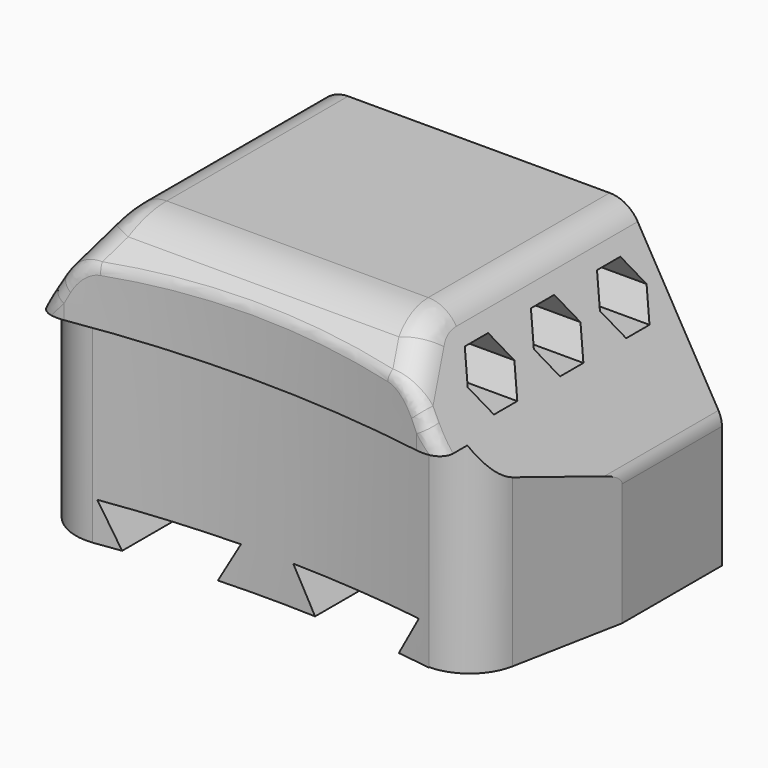
from build123d import *

# Parameters (mm, degrees)
PAD_DEPTH       = 45
POCKET_DEPTH    = 44.001
SKETCH002_R     = 6.75
SKETCH002_R_2   = 3
POCKET001_DEPTH = 10
PAD001_DEPTH    = 14
SKETCH004_R     = 2.55
HOLE_DEPTH      = 10
HOLE_TIPS_R     = 2.55
POCKET002_DEPTH = 70
PAD002_DEPTH    = 5
POCKET003_DEPTH = 75.001
FILLET_R        = 10
POCKET004_DEPTH = 31
POCKET005_DEPTH = 46.067612
FILLET001_R     = 5
FILLET002_R     = 4
FILLET003_R     = 2


with BuildPart() as part:
    # Sketch → Pad (new body)
    with BuildSketch(Plane.XY):
        with BuildLine():
            Line((0, 0), (75, 0))
            Line((75, 0), (75, -40))
            ThreePointArc((70.242855, -43.927688), (73.546706, -43.084524), (75, -40))
            ThreePointArc((70.242855, -43.927688), (37.5, -40.800537), (4.757145, -43.927688))
            ThreePointArc((0, -40), (1.453294, -43.084524), (4.757145, -43.927688))
            Line((0, -40), (0, 0))
        make_face()
    extrude(amount=PAD_DEPTH)

    # Sketch001 (on Face4 of Pad) → Pocket (cut, through all)
    with BuildSketch(Plane(origin=(0, 0, 0), x_dir=(-1, 0, 0), z_dir=(0, 1, 0))):
        Polygon((-58.845299, 0), (-62.309401, 6), (-41.535898, 6), (-45, 0), align=None)
        Polygon((-30, 0), (-33.464102, 6), (-12.690599, 6), (-16.154701, 0), align=None)
    extrude(amount=-POCKET_DEPTH, mode=Mode.SUBTRACT)

    # Sketch002 (on Face15 of Pocket) → Pocket001 (cut)
    with BuildSketch(Plane(origin=(0, 0, 0), x_dir=(-1, 0, 0), z_dir=(0, 1, 0))):
        with Locations((-51.92265, 19.990381)):
            Circle(SKETCH002_R)
        with Locations((-51.92265, 19.990381)):
            Circle(SKETCH002_R_2, mode=Mode.SUBTRACT)
        with Locations((-23.07735, 19.990381)):
            Circle(SKETCH002_R)
        with Locations((-23.07735, 19.990381)):
            Circle(SKETCH002_R_2, mode=Mode.SUBTRACT)
    extrude(amount=-POCKET001_DEPTH, mode=Mode.SUBTRACT)

    # Sketch003 (on Face12 of Pocket001) → Pad001 (join)
    with BuildSketch(Plane.XY.offset(45)):
        with BuildLine():
            ThreePointArc((64.69047, -45.989351), (67.738782, -45.691379), (70.242855, -43.927688))
            ThreePointArc((70.242855, -43.927688), (37.5, -40.800537), (4.757145, -43.927688))
            ThreePointArc((4.757145, -43.927688), (7.261218, -45.691379), (10.30953, -45.989351))
            ThreePointArc((10.30953, -45.989351), (37.5, -43.800537), (64.69047, -45.989351))
        make_face()
    extrude(amount=-PAD001_DEPTH)

    # Sketch004 (on Face15 of Pad001) → Hole (cut)
    with BuildSketch(Plane(origin=(0, 0, 0), x_dir=(-1, 0, 0), z_dir=(0, 1, 0))):
        with Locations((-37.5, 19.990381)):
            Circle(SKETCH004_R)
    extrude(amount=-HOLE_DEPTH, mode=Mode.SUBTRACT)

    # Hole tips → Hole tip 1 section 0
    with BuildSketch(Plane(origin=(0, -10, 0), x_dir=(-1, 0, 0), z_dir=(0, 1, 0)), mode=Mode.PRIVATE) as hole_tip_1_s0:
        with Locations((-37.5, 19.990381)):
            Circle(HOLE_TIPS_R)
    loft([hole_tip_1_s0.sketch, Vertex(37.5, -11.532195, 19.990381)], mode=Mode.SUBTRACT)

    # Sketch005 (on Face14 of Hole) → Pocket002 (cut)
    with BuildSketch(Plane.YZ.offset(75)):
        Polygon((-30.5, 40.208493), (-35, 40.208493), (-37.25, 36.311379), (-35, 32.414265), (-30.5, 32.414265), (-28.25, 36.311379), align=None)
        Polygon((-5, 40.208493), (-9.5, 40.208493), (-11.75, 36.311379), (-9.5, 32.414265), (-5, 32.414265), (-2.75, 36.311379), align=None)
        Polygon((-23.335763, 21.791285), (-25.585763, 25.6884), (-30.085763, 25.6884), (-32.335763, 21.791285), (-30.085763, 17.894171), (-25.585763, 17.894171), align=None)
        Polygon((-12.242871, 21.791285), (-14.492871, 25.6884), (-18.992871, 25.6884), (-21.242871, 21.791285), (-18.992871, 17.894171), (-14.492871, 17.894171), align=None)
        Polygon((-28.882209, 12.184559), (-31.132209, 16.081673), (-35.632209, 16.081673), (-37.882209, 12.184559), (-35.632209, 8.287445), (-31.132209, 8.287445), align=None)
        Polygon((-17.789317, 12.184559), (-20.039317, 16.081673), (-24.539317, 16.081673), (-26.789317, 12.184559), (-24.539317, 8.287445), (-20.039317, 8.287445), align=None)
        Polygon((-15.5, 36.311379), (-17.75, 40.208493), (-22.25, 40.208493), (-24.5, 36.311379), (-22.25, 32.414265), (-17.75, 32.414265), align=None)
    extrude(amount=-POCKET002_DEPTH, mode=Mode.SUBTRACT)

    # Sketch006 (on Face14 of Pocket002) → Pad002 (join)
    with BuildSketch(Plane.YZ.offset(75)):
        Polygon((-30.085763, 25.6884), (-32.335763, 21.791285), (-30.085763, 17.894171), (-25.585763, 17.894171), (-23.335763, 21.791285), (-25.585763, 25.6884), align=None)
        Polygon((-9.5, 40.208493), (-11.75, 36.311379), (-9.5, 32.414265), (-5, 32.414265), (-2.75, 36.311379), (-5, 40.208493), align=None)
        Polygon((-35.632209, 16.081673), (-37.882209, 12.184559), (-35.632209, 8.287445), (-31.132209, 8.287445), (-28.882209, 12.184559), (-31.132209, 16.081673), align=None)
        Polygon((-22.25, 40.208493), (-24.5, 36.311379), (-22.25, 32.414265), (-17.75, 32.414265), (-15.5, 36.311379), (-17.75, 40.208493), align=None)
        Polygon((-37.25, 36.311379), (-35, 32.414265), (-30.5, 32.414265), (-28.25, 36.311379), (-30.5, 40.208493), (-35, 40.208493), align=None)
        Polygon((-24.539317, 16.081673), (-26.789317, 12.184559), (-24.539317, 8.287445), (-20.039317, 8.287445), (-17.789317, 12.184559), (-20.039317, 16.081673), align=None)
        Polygon((-18.992871, 25.6884), (-21.242871, 21.791285), (-18.992871, 17.894171), (-14.492871, 17.894171), (-12.242871, 21.791285), (-14.492871, 25.6884), align=None)
    extrude(amount=-PAD002_DEPTH)

    # Sketch007 (on Face14 of Pad002) → Pocket003 (cut, through all)
    with BuildSketch(Plane.YZ.offset(75)):
        Polygon((-35.426907, 47.842495), (-49.282906, 35.841297), (-49.357311, 46.987873), align=None)
    extrude(amount=-POCKET003_DEPTH, mode=Mode.SUBTRACT)

    # Fillet
    fillet_edges = [part.edges().sort_by_distance(p)[0] for p in [
        (37.5, -38.708713, 45),
    ]]
    fillet(fillet_edges, radius=FILLET_R)

    # Sketch008 (on Face7 of Fillet) → Pocket004 (cut)
    with BuildSketch(Plane(origin=(0, 0, 0), x_dir=(1, 0, 0), z_dir=(0, 0, -1))):
        with BuildLine():
            Line((3.27634, 36.246015), (0, 19.25))
            Line((-3.444863, 48.441868), (0, 19.25))
            Line((12.062922, 42.677344), (-3.444863, 48.441868))
            ThreePointArc((12.062922, 42.677344), (6.40662, 41.187225), (3.27634, 36.246015))
        make_face()
        with BuildLine():
            Line((71.72366, 36.246015), (75, 19.25))
            Line((75, 19.25), (79.543735, 52.914856))
            Line((63.868284, 42.731726), (79.543735, 52.914856))
            ThreePointArc((71.72366, 36.246015), (68.961696, 40.900774), (63.868284, 42.731726))
        make_face()
    extrude(amount=-POCKET004_DEPTH, mode=Mode.SUBTRACT)

    # Sketch009 (on Face12 of Pocket004) → Pocket005 (cut, through all)
    with BuildSketch(Plane(origin=(0, 0, 0), x_dir=(-1, 0, 0), z_dir=(0, 1, 0))):
        Polygon((-75, 19.990381), (-60.56069, 45), (-75, 45), align=None)
        Polygon((-14.43931, 45), (0, 19.990381), (0, 45), align=None)
    extrude(amount=-POCKET005_DEPTH, mode=Mode.SUBTRACT)

    # Fillet001
    fillet001_edges = [part.edges().sort_by_distance(p)[0] for p in [
        (14.43931, -17.490051, 45),
        (60.56069, -17.490051, 45),
    ]]
    fillet(fillet001_edges, radius=FILLET001_R)

    # Fillet002
    fillet002_edges = [part.edges().sort_by_distance(p)[0] for p in [
        (0, -9.625, 19.990381),
        (75, -16.266312, 19.990381),
        (75, -6.641312, 19.990381),
    ]]
    fillet(fillet002_edges, radius=FILLET002_R)

    # Fillet003
    fillet003_edges = [part.edges().sort_by_distance(p)[0] for p in [
        (12.333612, -45.673856, 38.443514),
        (37.5, -43.800537, 40.589782),
        (62.666388, -45.673856, 38.443514),
    ]]
    fillet(fillet003_edges, radius=FILLET003_R)


solid = part.part
